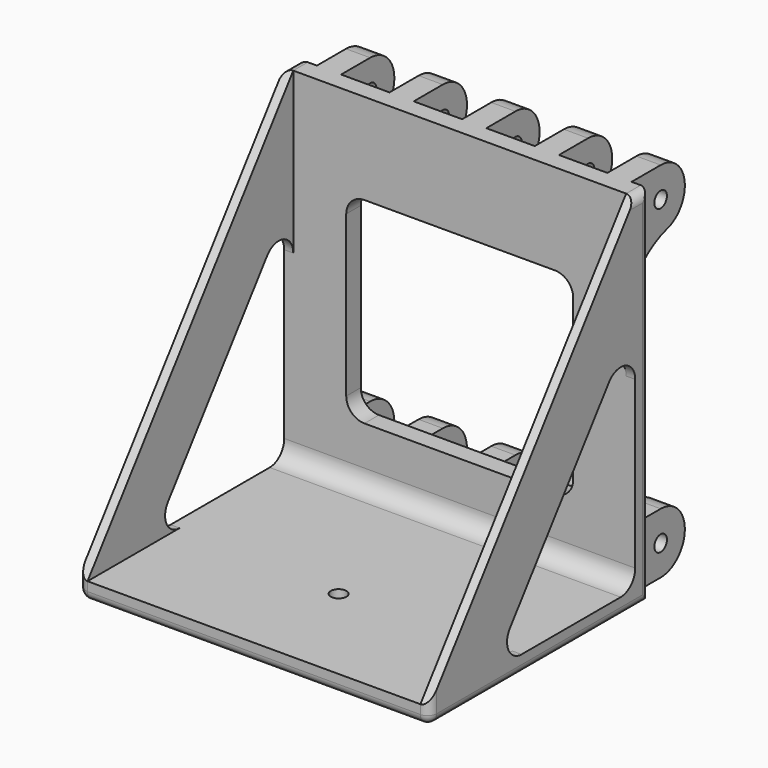
from build123d import *

# Parameters (mm, degrees)
SKETCH_W        = 110
SKETCH_H        = 85
SKETCH_R        = 2.6
PAD_DEPTH       = 6
SKETCH001_R     = 12
POCKET_DEPTH    = 2
SKETCH002_W     = 110
SKETCH002_H     = 120
SKETCH002_W_2   = 75
SKETCH002_H_2   = 65
PAD001_DEPTH    = 6
PAD002_DEPTH    = 3
SKETCH004_W     = 8
SKETCH004_H     = 20
PAD003_DEPTH    = 22
SKETCH005_R     = 2.6
POCKET001_DEPTH = 110.001
FILLET_R        = 9.99
CHAMFER_SIZE    = 9.99
FILLET001_R     = 6
FILLET002_R     = 3
CHAMFER001_SIZE = 1.99
FILLET003_R     = 24


with BuildPart() as part:
    # Sketch → Pad (new body)
    with BuildSketch(Plane.XY):
        Rectangle(SKETCH_W, SKETCH_H)
        with Locations((0, -7.5)):
            Circle(SKETCH_R, mode=Mode.SUBTRACT)
    extrude(amount=PAD_DEPTH)

    # Sketch001 (on Face6 of Pad) → Pocket (cut)
    with BuildSketch(Plane(origin=(0, 0, 0), x_dir=(1, 0, 0), z_dir=(0, 0, -1))):
        with Locations((0, 7.5)):
            Circle(SKETCH001_R)
    extrude(amount=-POCKET_DEPTH, mode=Mode.SUBTRACT)

    # Sketch002 (on Face1 of Pocket) → Pad001 (join)
    with BuildSketch(Plane(origin=(0, 42.5, 0), x_dir=(-1, 0, 0), z_dir=(0, 1, 0))):
        with Locations((0, 60)):
            Rectangle(SKETCH002_W, SKETCH002_H)
        with Locations((0, 57.5)):
            Rectangle(SKETCH002_W_2, SKETCH002_H_2, mode=Mode.SUBTRACT)
    extrude(amount=PAD001_DEPTH)

    # Sketch003 (on Face15 of Pad001) → Pad002 (join)
    with BuildSketch(Plane.YZ.offset(55)):
        Polygon((-42.5, 6), (42.5, 120), (48.5, 120), (48.5, 0), (-42.5, 0), align=None)
        Polygon((42.5, 85), (-16.403509, 6), (42.5, 6), align=None, mode=Mode.SUBTRACT)
    pad002 = extrude(amount=PAD002_DEPTH)

    # Mirrored: Pad002 across YZ
    add(pad002.mirror(Plane.YZ))

    # Sketch004 (on Face13 of Mirrored) → Pad003 (join)
    with BuildSketch(Plane(origin=(0, 48.5, 0), x_dir=(-1, 0, 0), z_dir=(0, 1, 0))):
        with Locations((-24, 110)):
            Rectangle(SKETCH004_W, SKETCH004_H)
        with Locations((24, 110)):
            Rectangle(SKETCH004_W, SKETCH004_H)
        with Locations((-24, 10)):
            Rectangle(SKETCH004_W, SKETCH004_H)
        with Locations((24, 10)):
            Rectangle(SKETCH004_W, SKETCH004_H)
        with Locations((0, 10)):
            Rectangle(SKETCH004_W, SKETCH004_H)
        with Locations((0, 110)):
            Rectangle(SKETCH004_W, SKETCH004_H)
        with Locations((-48, 110)):
            Rectangle(SKETCH004_W, SKETCH004_H)
        with Locations((48, 110)):
            Rectangle(SKETCH004_W, SKETCH004_H)
        with Locations((-48, 10)):
            Rectangle(SKETCH004_W, SKETCH004_H)
        with Locations((48, 10)):
            Rectangle(SKETCH004_W, SKETCH004_H)
    extrude(amount=PAD003_DEPTH)

    # Sketch005 (on Face13 of Pad003) → Pocket001 (cut, through all)
    with BuildSketch(Plane.YZ.offset(52)):
        with Locations((60.5, 110)):
            Circle(SKETCH005_R)
        with Locations((60.5, 10)):
            Circle(SKETCH005_R)
    extrude(amount=-POCKET001_DEPTH, mode=Mode.SUBTRACT)

    # Fillet
    fillet_edges = [part.edges().sort_by_distance(p)[0] for p in [
        (48, 70.5, 0),
        (24, 70.5, 0),
        (0, 70.5, 0),
        (-24, 70.5, 0),
        (-48, 70.5, 0),
        (-48, 70.5, 20),
        (-24, 70.5, 20),
        (0, 70.5, 20),
        (24, 70.5, 20),
        (48, 70.5, 20),
        (48, 70.5, 100),
        (24, 70.5, 100),
        (0, 70.5, 100),
        (-24, 70.5, 100),
        (-48, 70.5, 100),
        (-48, 70.5, 120),
        (-24, 70.5, 120),
        (0, 70.5, 120),
        (24, 70.5, 120),
        (48, 70.5, 120),
    ]]
    fillet(fillet_edges, radius=FILLET_R)

    # Chamfer
    chamfer_edges = [part.edges().sort_by_distance(p)[0] for p in [
        (0, 48.5, 100),
        (-24, 48.5, 100),
        (-48, 48.5, 100),
        (24, 48.5, 100),
        (48, 48.5, 100),
    ]]
    chamfer(chamfer_edges, length=CHAMFER_SIZE)

    # Fillet001
    fillet001_edges = [part.edges().sort_by_distance(p)[0] for p in [
        (56.5, 42.5, 85),
        (56.5, -16.403509, 6),
        (0, 42.5, 6),
        (37.5, 45.5, 25),
        (-37.5, 45.5, 25),
        (-37.5, 45.5, 90),
        (37.5, 45.5, 90),
        (-56.5, 42.5, 85),
        (-56.5, -16.403509, 6),
    ]]
    fillet(fillet001_edges, radius=FILLET001_R)

    # Fillet002
    fillet002_edges = [part.edges().sort_by_distance(p)[0] for p in [
        (-58, -42.5, 3),
        (58, -42.5, 3),
        (-58, 45.5, 120),
        (58, 45.5, 120),
        (58, 48.5, 60),
        (-58, 48.5, 60),
        (58, 3, 0),
        (0, -42.5, 0),
        (-58, 3, 0),
    ]]
    fillet(fillet002_edges, radius=FILLET002_R)

    # Chamfer001
    chamfer001_edges = [part.edges().sort_by_distance(p)[0] for p in [
        (-12, -7.5, 0),
    ]]
    chamfer(chamfer001_edges, length=CHAMFER001_SIZE)

    # Fillet003
    fillet003_edges = [part.edges().sort_by_distance(p)[0] for p in [
        (48, 58.49, 100),
        (48, 60.51, 100),
        (24, 58.49, 100),
        (24, 60.51, 100),
        (0, 58.49, 100),
        (0, 60.51, 100),
        (-24, 58.49, 100),
        (-24, 60.51, 100),
        (-48, 58.49, 100),
        (-48, 60.51, 100),
    ]]
    fillet(fillet003_edges, radius=FILLET003_R)


solid = part.part
